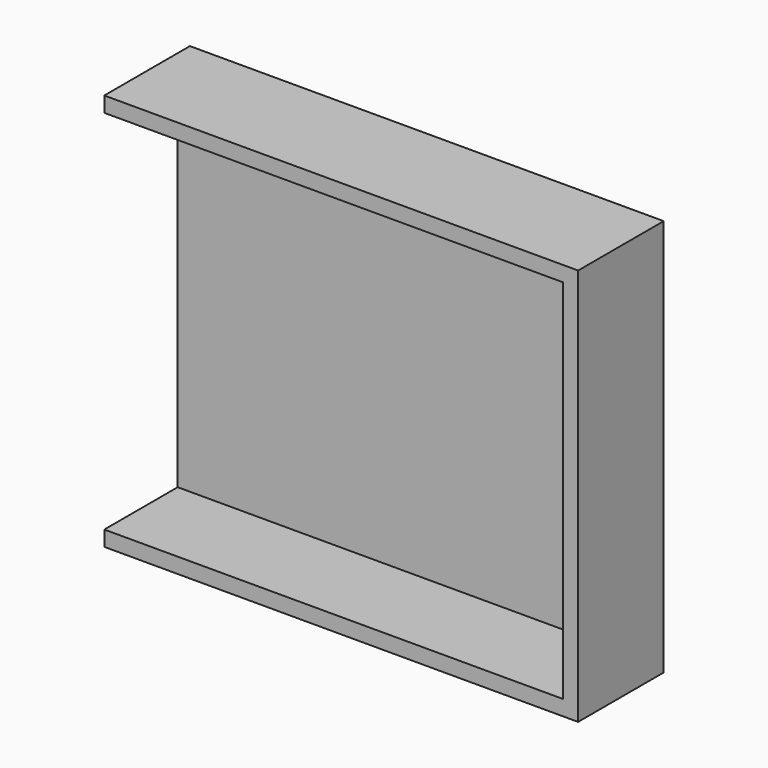
from build123d import *

# Parameters (mm, degrees)
F0_W     = 75
F0_H     = 60
F1_DEPTH = 15
F2_T     = 2.5


with BuildPart() as f1:
    # F0 (on Front) → F1 (new body)
    with BuildSketch(Plane.XZ):
        Rectangle(F0_W, F0_H)
    extrude(amount=F1_DEPTH)

    # F2
    f2_openings = [f1.faces().sort_by_distance(p)[0] for p in [
        (0, -15, 0),
        (-37.5, -7.5, 0),
    ]]
    offset(amount=F2_T, openings=f2_openings, kind=Kind.INTERSECTION)


solid = f1.part
